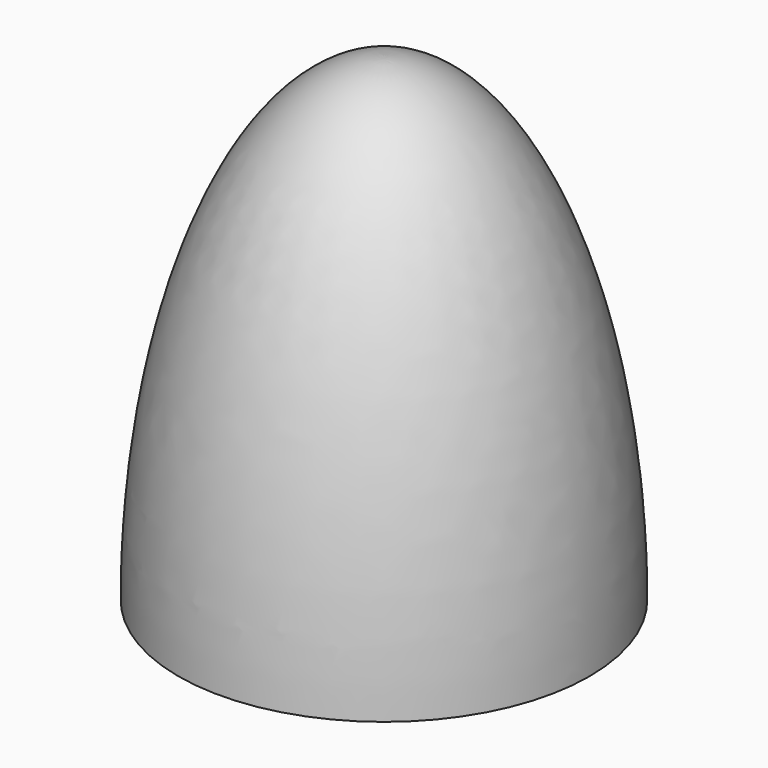
from build123d import *


with BuildPart() as f1:
    # F0 (on Front) → F1 (revolve)
    with BuildSketch(Plane.XZ):
        with BuildLine():
            Line((-3.2657145775, 55.88), (-3.2657145775, 0))
            Line((-3.2657145775, 0), (20.8642854225, 0))
            add(Edge.make_bspline(
                [(20.8642854225, 0), (20.8642854225, 55.88), (-3.2657145775, 55.88)],
                knots=[4.7123889804, 4.7123889804, 4.7123889804, 6.2831853072, 6.2831853072, 6.2831853072], degree=2, weights=[1, 0.7071067812, 1]))
        make_face()
    revolve(axis=Axis((-3.2657145775, 0, 27.94), (0, 0, 1)))


solid = f1.part
